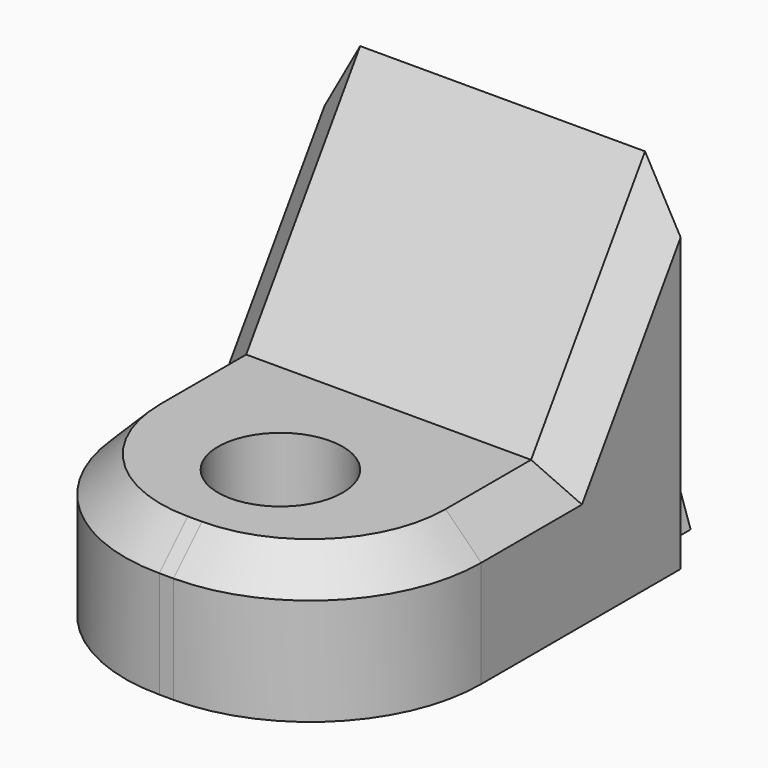
from build123d import *

# Parameters (mm, degrees)
F1_DEPTH = 10
F2_R     = 1.75
F3_DEPTH = 4
F5_DEPTH = 2.1
F6_R     = 4.8
F7_SIZE  = 1
F8_SIZE  = 0.5


with BuildPart() as f1:
    # F0 (on Right) → F1 (new body)
    with BuildSketch(Plane.YZ):
        Polygon((-11.8, 4), (-11.8, 0), (0, 0), (0, 10), (-4, 4), align=None)
    extrude(amount=F1_DEPTH)

    # F2 (on face) → F3 (cut, through all)
    with BuildSketch(Plane(origin=(0, 0, 0), x_dir=(1, 0, 0), z_dir=(0, 0, -1))):
        with Locations((5, 7.8)):
            Circle(F2_R)
    extrude(amount=-F3_DEPTH, mode=Mode.SUBTRACT)

    # F4 (on face) → F5 (join)
    with BuildSketch(Plane(origin=(0, 0, 0), x_dir=(-1, 0, 0), z_dir=(0, 1, 0))):
        Polygon((-7, 6), (-9, 0), (-1, 0), (-3, 6), align=None)
    extrude(amount=F5_DEPTH)

    # F6
    f6_edges = [f1.edges().sort_by_distance(p)[0] for p in [
        (0, -11.8, 2),
        (10, -11.8, 2),
    ]]
    fillet(f6_edges, radius=F6_R)

    # F7
    f7_edges = [f1.edges().sort_by_distance(p)[0] for p in [
        (0, -5.5, 4),
        (0, -2, 7),
        (10, -2, 7),
    ]]
    chamfer(f7_edges, length=F7_SIZE)

    # F8
    f8_edges = [f1.edges().sort_by_distance(p)[0] for p in [
        (2, 2.1, 3),
        (5, 2.1, 6),
        (8, 2.1, 3),
    ]]
    chamfer(f8_edges, length=F8_SIZE)


solid = f1.part
